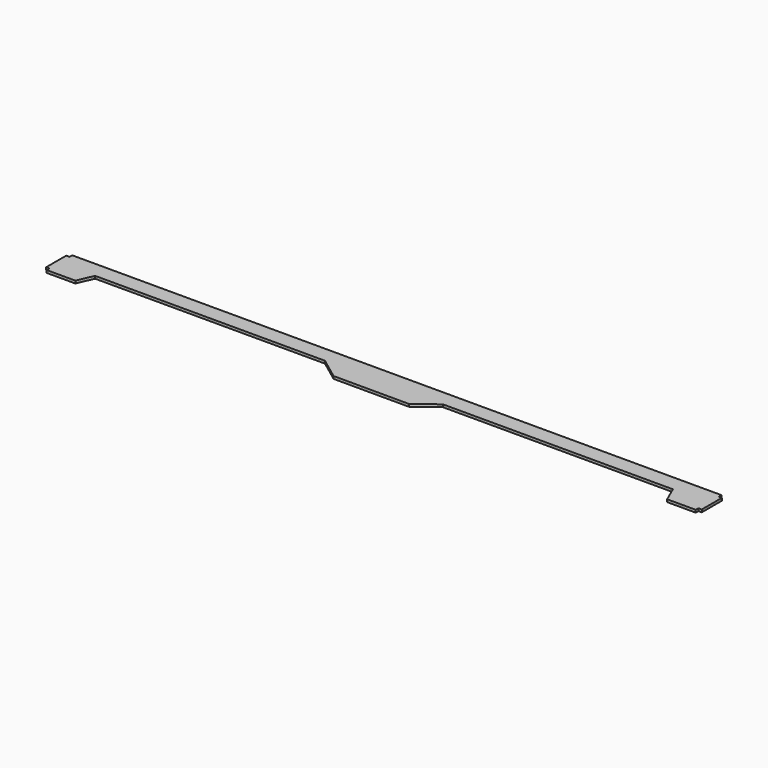
from build123d import *

# Parameters (mm, degrees)
F1_DEPTH = 6
F2_W     = 8
F2_H     = 8
F3_DEPTH = 6.1


with BuildPart() as f1:
    # F0 (on Top) → F1 (new body)
    with BuildSketch(Plane.XY):
        Polygon((860.344066, 201.004392), (-679.655934, 201.004392), (-679.655934, 126.004392), (-604.655934, 126.004392), (-588.155934, 163.504392), (-48.155934, 163.504392), (1.844066, 126.004392), (178.844066, 125.815576), (228.844066, 163.504392), (768.844066, 163.504392), (785.344066, 126.004392), (860.344066, 126.004392), align=None)
    extrude(amount=-F1_DEPTH)

    # F2 (on face) → F3 (cut)
    with BuildSketch(Plane.XY):
        with Locations((-675.723978, 197.243058)):
            Rectangle(F2_W, F2_H)
        with Locations((-675.744899, 129.974491)):
            Rectangle(F2_W, F2_H)
        with Locations((856.595747, 197.113655)):
            Rectangle(F2_W, F2_H)
        with Locations((856.455497, 129.932945)):
            Rectangle(F2_W, F2_H)
    extrude(amount=-F3_DEPTH, mode=Mode.SUBTRACT)


solid = f1.part
